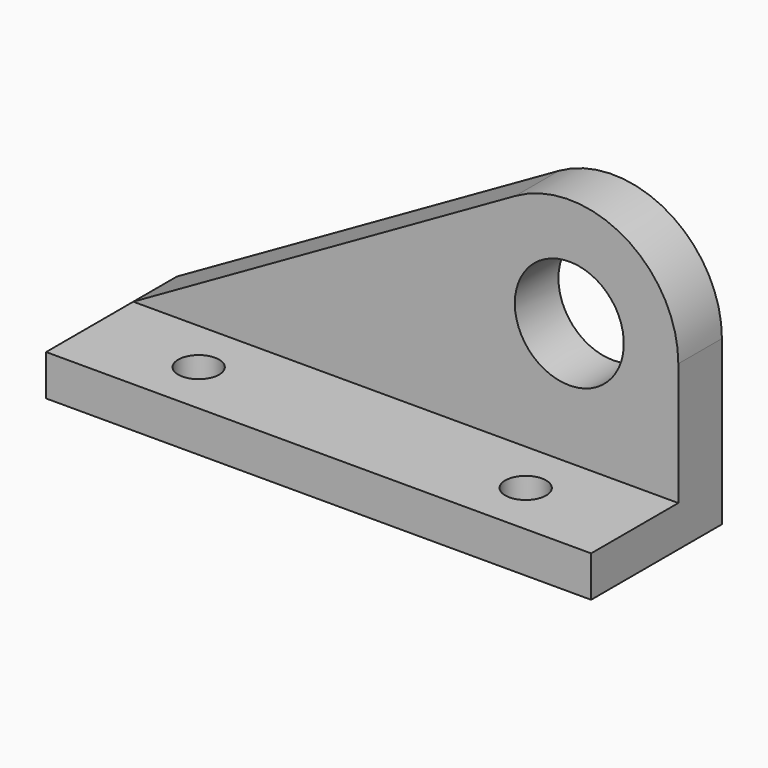
from build123d import *

# Parameters (mm, degrees)
F1_DEPTH = 38.1
F2_DEPTH = 12.7
F5_D     = 9.525
F6_D     = 9.525
F7_D     = 25.4


with BuildPart() as f1:
    # F0 (on Front) → F1 (new body)
    with BuildSketch(Plane.XZ):
        Polygon((0, 9.525), (0, 0), (127, 0), (127, 9.525), (101.6, 9.525), align=None)
    extrude(amount=F1_DEPTH)

    # F0 (on Front) → F2 (join)
    with BuildSketch(Plane.XZ):
        with BuildLine():
            Line((89.0406588905, 60.1776572782), (0, 9.525))
            Line((0, 9.525), (101.6, 9.525))
            Line((101.6, 9.525), (127, 9.525))
            Line((127, 9.525), (127, 38.1))
            ThreePointArc((127, 38.1), (114.3701357827, 60.0564029862), (89.0406588905, 60.1776572782))
        make_face()
    extrude(amount=F2_DEPTH)

    # F5 (through all)
    with Locations(Plane.XY.offset(9.525)):
        with Locations((25.3964494914, -25.3996793181)):
            Hole(F5_D / 2)

    # F6 (through all)
    with Locations(Plane.XY.offset(9.525)):
        with Locations((101.6, -25.4)):
            Hole(F6_D / 2)

    # F7 (through all)
    with Locations(Plane(origin=(0, 0, 0), x_dir=(1, 0, 0), z_dir=(0, 1, 0))):
        with Locations((101.6, -38.1)):
            Hole(F7_D / 2)


solid = f1.part
